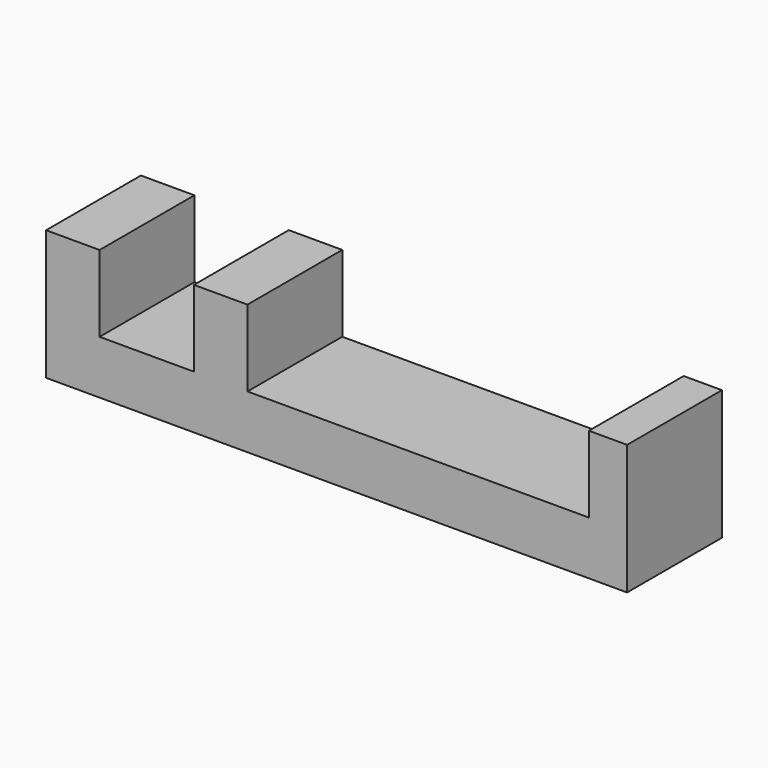
from build123d import *

# Parameters (mm, degrees)
F0_W     = 7
F0_H     = 15.5
F0_W_2   = 12.34
F0_W_3   = 44.66
F0_W_4   = 5
F1_DEPTH = 7
F2_DEPTH = 17


with BuildPart() as f1:
    # F0 (on Top) → F1 (new body)
    with BuildSketch(Plane.XY):
        with Locations((-95.327207, 0)):
            Rectangle(F0_W, F0_H)
        with Locations((-85.657207, 0)):
            Rectangle(F0_W_2, F0_H)
        with Locations((-75.987207, 0)):
            Rectangle(F0_W, F0_H)
        with Locations((-50.157207, 0)):
            Rectangle(F0_W_3, F0_H)
        with Locations((-25.327207, 0)):
            Rectangle(F0_W_4, F0_H)
    extrude(amount=F1_DEPTH)

    # F0 (on Top) → F2 (join)
    with BuildSketch(Plane.XY):
        with Locations((-95.327207, 0)):
            Rectangle(F0_W, F0_H)
        with Locations((-75.987207, 0)):
            Rectangle(F0_W, F0_H)
        with Locations((-25.327207, 0)):
            Rectangle(F0_W_4, F0_H)
    extrude(amount=F2_DEPTH)


solid = f1.part
